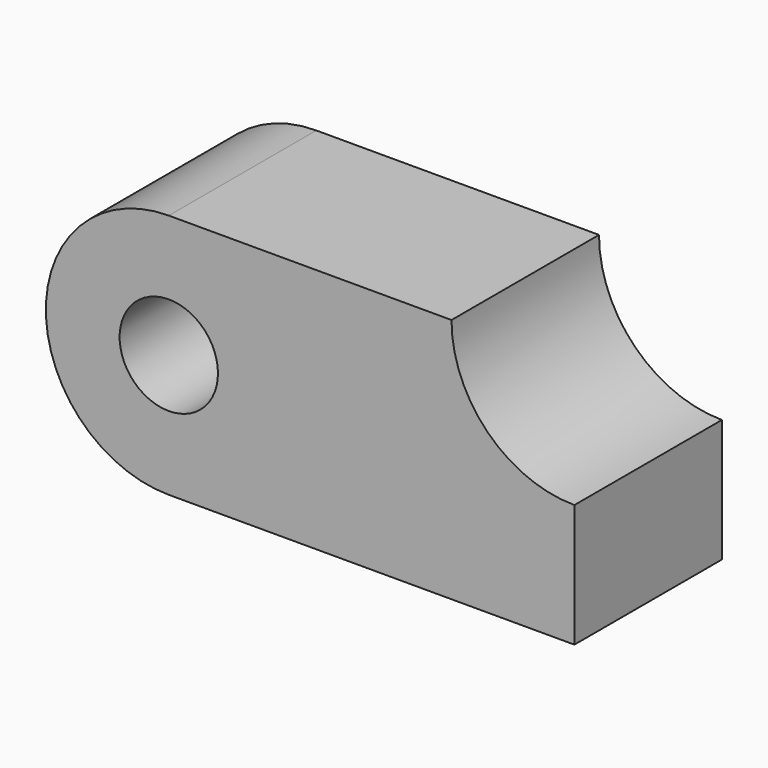
from build123d import *

# Parameters (mm, degrees)
F0_W     = 104.775
F0_H     = 63.5
F1_DEPTH = 47.625
F2_R     = 12.7
F3_DEPTH = 47.625
F5_DEPTH = 47.625


with BuildPart() as f1:
    # F0 (on Front) → F1 (new body)
    with BuildSketch(Plane.XZ):
        with Locations((17.757324, 1.931498)):
            Rectangle(F0_W, F0_H)
        with BuildLine():
            Line((-34.630176, -29.818502), (-34.630176, 33.681498))
            ThreePointArc((-34.630176, 33.681498), (-66.380176, 1.931498), (-34.630176, -29.818502))
        make_face()
    extrude(amount=F1_DEPTH)

    # F2 (on face) → F3 (cut)
    with BuildSketch(Plane.XZ.offset(47.625)):
        with Locations((-34.630176, 1.931498)):
            Circle(F2_R)
    extrude(amount=-F3_DEPTH, mode=Mode.SUBTRACT)

    # F4 (on face) → F5 (cut)
    with BuildSketch(Plane.XZ.offset(47.625)):
        with BuildLine():
            Line((70.144824, 33.681498), (38.394824, 33.681498))
            ThreePointArc((38.394824, 33.681498), (47.694183, 11.230857), (70.144824, 1.931498))
            Line((70.144824, 1.931498), (70.144824, 33.681498))
        make_face()
    extrude(amount=-F5_DEPTH, mode=Mode.SUBTRACT)


solid = f1.part
